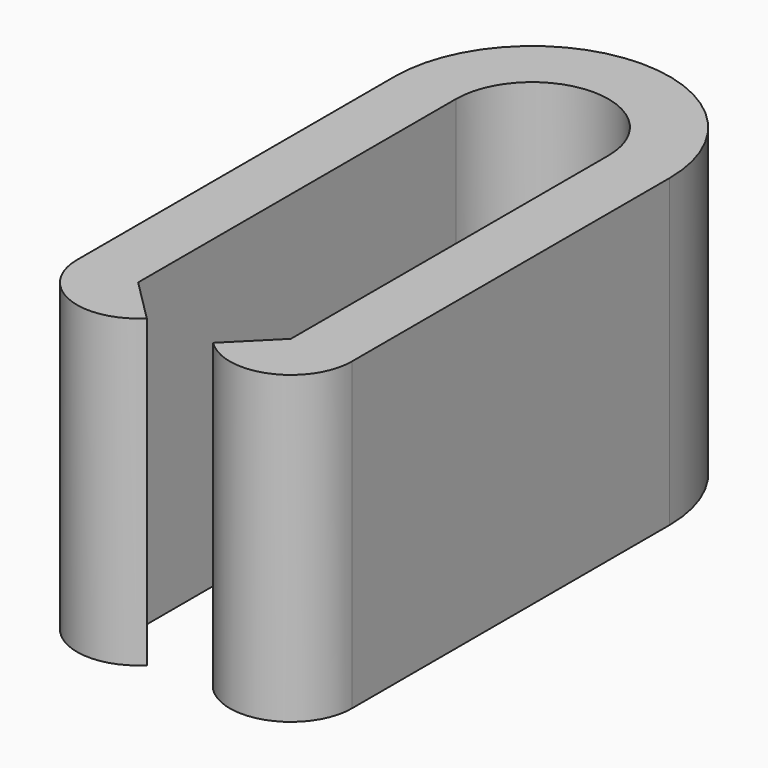
from build123d import *

# Parameters (mm, degrees)
F0_W     = 1
F0_H     = 6.5
F1_DEPTH = 5


with BuildPart() as f1:
    # F0 (on Top) → F1 (new body)
    with BuildSketch(Plane.XY):
        with BuildLine():
            ThreePointArc((-1.25, 0), (0, 1.25), (1.25, 0))
            Line((1.25, 0), (2.25, 0))
            ThreePointArc((2.25, 0), (0, 2.25), (-2.25, 0))
            Line((-2.25, 0), (-1.25, 0))
        make_face()
        with Locations((1.75, -3.25)):
            Rectangle(F0_W, F0_H)
        with BuildLine():
            Line((2.25, -6.5), (1.25, -6.5))
            Line((1.25, -6.5), (0.542893, -7.207107))
            ThreePointArc((0.542893, -7.207107), (1.632683, -7.42388), (2.25, -6.5))
        make_face()
        with Locations((-1.75, -3.25)):
            Rectangle(F0_W, F0_H)
        with BuildLine():
            Line((-0.542893, -7.207107), (-1.25, -6.5))
            Line((-1.25, -6.5), (-2.25, -6.5))
            ThreePointArc((-2.25, -6.5), (-1.632683, -7.42388), (-0.542893, -7.207107))
        make_face()
    extrude(amount=F1_DEPTH)


solid = f1.part
